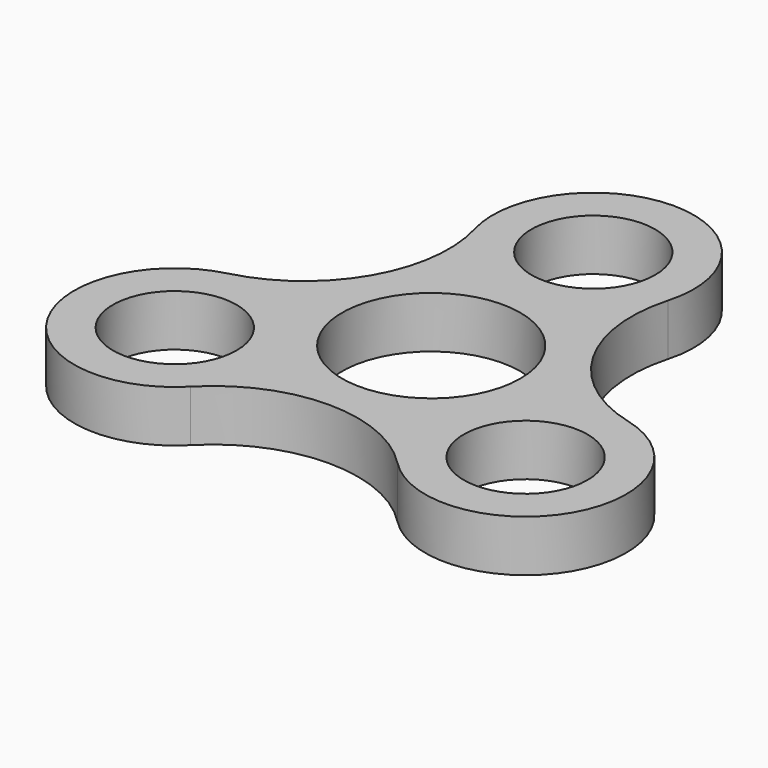
from build123d import *

# Parameters (mm, degrees)
F0_R     = 7.62
F0_R_2   = 10.9855
F1_DEPTH = 6.35


with BuildPart() as f1:
    # F0 (on Top) → F1 (new body)
    with BuildSketch(Plane.XY):
        with BuildLine():
            ThreePointArc((-12.746526, -21.122283), (0, -15.748), (12.746526, -21.122283))
            ThreePointArc((12.746526, -21.122283), (32.335657, -18.669), (24.665697, -0.477674))
            ThreePointArc((24.665697, -0.477674), (13.638168, 7.874), (11.919171, 21.599957))
            ThreePointArc((11.919171, 21.599957), (0, 37.338), (-11.919171, 21.599957))
            ThreePointArc((-11.919171, 21.599957), (-13.638168, 7.874), (-24.665697, -0.477674))
            ThreePointArc((-24.665697, -0.477674), (-32.335657, -18.669), (-12.746526, -21.122283))
        make_face()
        with Locations((-21.612097, -12.47775)):
            Circle(F0_R, mode=Mode.SUBTRACT)
        Circle(F0_R_2, mode=Mode.SUBTRACT)
        with Locations((21.612097, -12.47775)):
            Circle(F0_R, mode=Mode.SUBTRACT)
        with Locations((0, 24.9555)):
            Circle(F0_R, mode=Mode.SUBTRACT)
    extrude(amount=F1_DEPTH)


solid = f1.part
